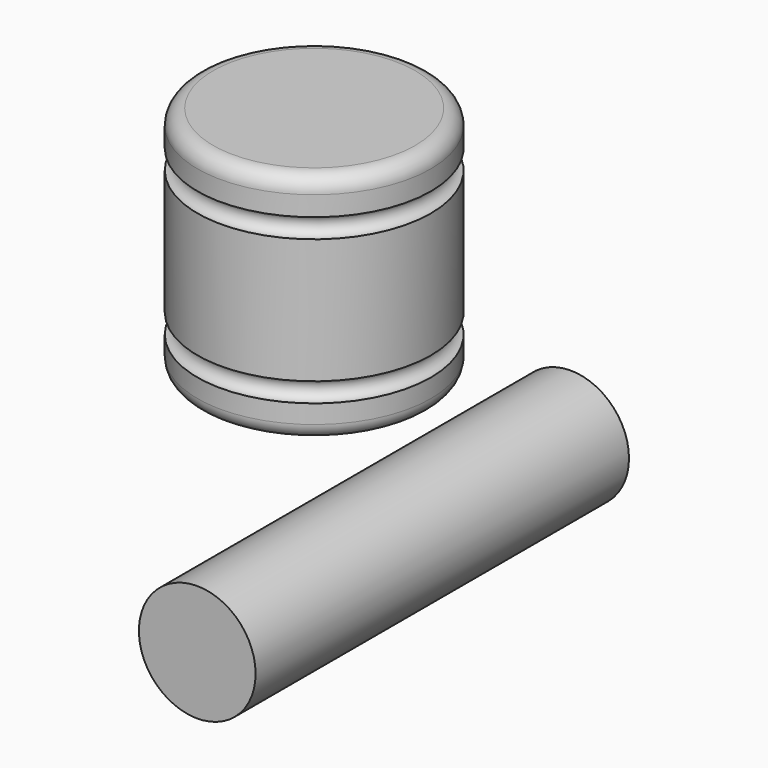
from build123d import *

# Parameters (mm, degrees)
F2_R     = 5.08
F3_R     = 19.05
F4_DEPTH = 152.4


with BuildPart() as f1:
    # F0 (on Front) → F1 (revolve)
    with BuildSketch(Plane.XZ):
        with BuildLine():
            Line((-38.1, 0), (0, 0))
            Line((0, 0), (0, 11.146598))
            ThreePointArc((0, 11.146598), (-3.175, 14.321598), (0, 17.496598))
            Line((0, 17.496598), (0, 58.312399))
            ThreePointArc((0, 58.312399), (-3.175, 61.487399), (0, 64.662399))
            Line((0, 64.662399), (0, 76.2))
            Line((0, 76.2), (-38.1, 76.2))
            Line((-38.1, 76.2), (-38.1, 0))
        make_face()
    revolve(axis=Axis((-38.1, 0, 38.1), (0, 0, 1)))

    # F2
    f2_edges = [f1.edges().sort_by_distance(p)[0] for p in [
        (-76.2, 0, 76.2),
        (-76.2, 0, 0),
    ]]
    fillet(f2_edges, radius=F2_R)


with BuildPart() as f4:
    # F3 (on Front) → F4 (new body)
    with BuildSketch(Plane.XZ):
        with Locations((45.638163, 8.974869)):
            Circle(F3_R)
    extrude(amount=F4_DEPTH)


solid = Compound([f1.part, f4.part])
